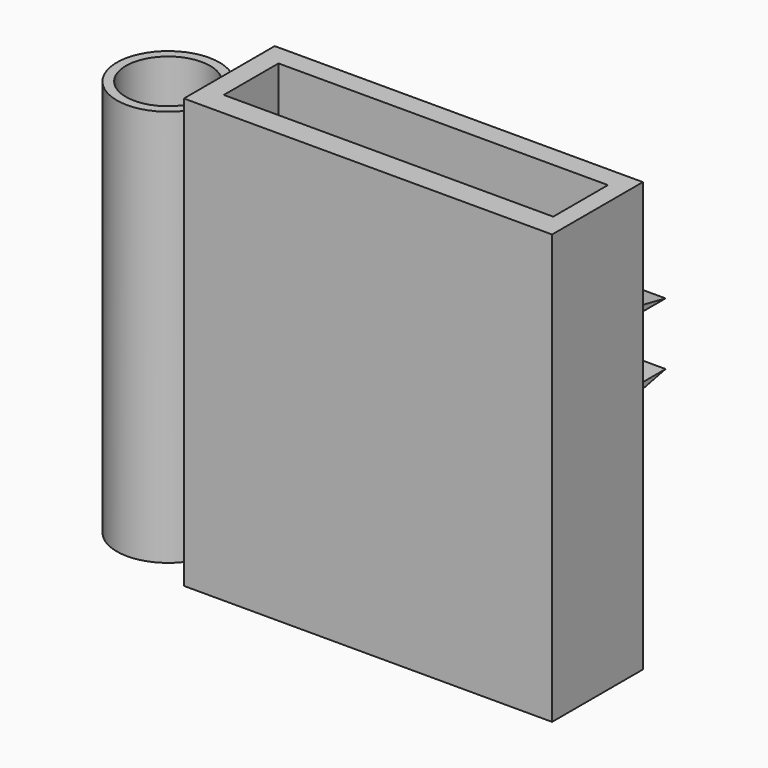
from build123d import *

# Parameters (mm, degrees)
F0_W      = 82.406614
F0_H      = 96.04887
F1_DEPTH  = 25.4
F2_W      = 73.741935
F2_H      = 15.301453
F3_DEPTH  = 92.202
F4_W      = 41.848549
F4_H      = 3.502742
F5_DEPTH  = 33.782
F7_DEPTH  = 58.928
F9_DEPTH  = 50.292
F10_W     = 14.748386
F10_H     = 6.452419
F11_DEPTH = 25.4
F12_W     = 1.843547
F12_H     = 87.199841
F13_DEPTH = 3.048
F14_R     = 9.422481
F15_DEPTH = 88.9
F16_R     = 9.422481
F17_DEPTH = 1.524


with BuildPart() as f1:
    # F0 (on Front) → F1 (new body)
    with BuildSketch(Plane.XZ):
        with Locations((1.474841, -4.240159)):
            Rectangle(F0_W, F0_H)
    extrude(amount=F1_DEPTH)

    # F2 (on face) → F3 (cut)
    with BuildSketch(Plane.XY.offset(43.784276)):
        with Locations((1.751371, -12.351774)):
            Rectangle(F2_W, F2_H)
    extrude(amount=-F3_DEPTH, mode=Mode.SUBTRACT)

    # F4 (on face) → F5 (join)
    with BuildSketch(Plane(origin=(0, 0, 0), x_dir=(-1, 0, 0), z_dir=(0, 1, 0))):
        with Locations((0.184355, 1.751371)):
            Rectangle(F4_W, F4_H)
        with Locations((0.184355, -15.670161)):
            Rectangle(F4_W, F4_H)
    extrude(amount=F5_DEPTH)

    # F6 (on face) → F7 (cut)
    with BuildSketch(Plane.YZ.offset(20.73992)):
        Polygon((33.782, 3.502742), (16.891, 3.502742), (33.782, 0), align=None)
    extrude(amount=-F7_DEPTH, mode=Mode.SUBTRACT)

    # F8 (on face) → F9 (cut)
    with BuildSketch(Plane.YZ.offset(20.73992)):
        Polygon((33.782, -13.91879), (16.891, -17.421532), (33.782, -17.421532), align=None)
    extrude(amount=-F9_DEPTH, mode=Mode.SUBTRACT)

    # F10 (on face) → F11 (cut)
    with BuildSketch(Plane(origin=(0, 0, -52.264594), x_dir=(1, 0, 0), z_dir=(0, 0, -1))):
        with Locations((1.75137, 13.457904)):
            Rectangle(F10_W, F10_H)
    extrude(amount=-F11_DEPTH, mode=Mode.SUBTRACT)

    # F12 (on face) → F13 (join)
    with BuildSketch(Plane(origin=(-39.728466, 0, 0), x_dir=(0, -1, 0), z_dir=(-1, 0, 0))):
        with Locations((11.679495, -6.745199)):
            Rectangle(F12_W, F12_H)
    extrude(amount=F13_DEPTH)

    # F14 (on face) → F15 (join)
    with BuildSketch(Plane.XY.offset(36.854722)):
        with BuildLine():
            Line((-42.776466, -12.601268), (-42.776466, -10.757721))
            ThreePointArc((-42.776466, -10.757721), (-65.724916, -11.679494), (-42.776466, -12.601268))
        make_face()
        with Locations((-54.267689, -11.679494)):
            Circle(F14_R, mode=Mode.SUBTRACT)
    extrude(amount=-F15_DEPTH)

    # F16 (on face) → F17 (join)
    with BuildSketch(Plane(origin=(0, 0, -52.045278), x_dir=(1, 0, 0), z_dir=(0, 0, -1))):
        with Locations((-54.267689, 11.679494)):
            Circle(F16_R)
    extrude(amount=-F17_DEPTH)


solid = f1.part
